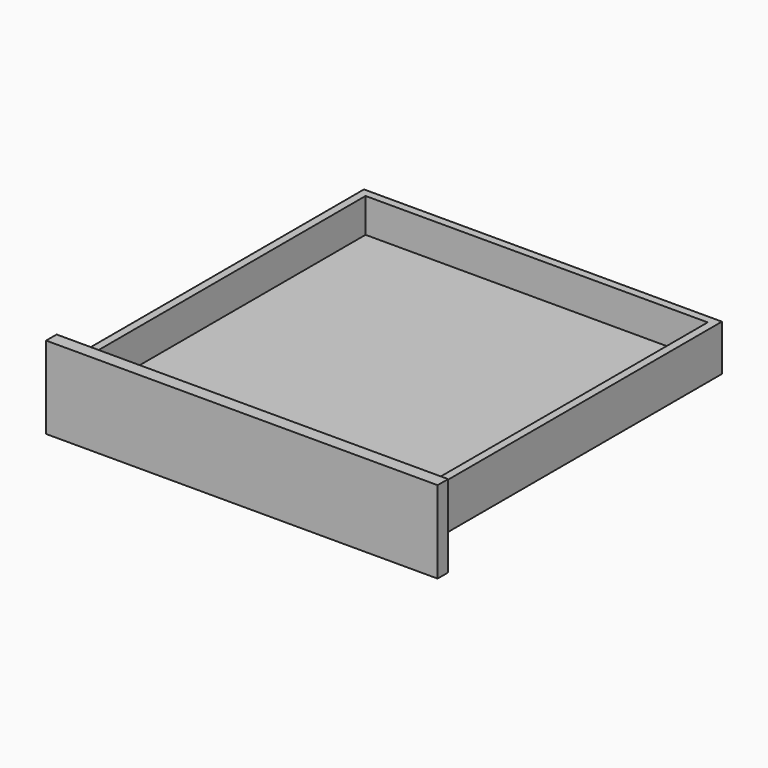
from build123d import *

# Parameters (mm, degrees)
F1_DEPTH = 552
F2_W     = 12
F2_H     = 70
F3_DEPTH = 520
F4_W     = 595
F4_H     = 125
F5_DEPTH = 20


with BuildPart() as f1:
    # F0 (on Front) → F1 (new body)
    with BuildSketch(Plane.XZ):
        Polygon((260, 55), (260, 3), (-260, 3), (-260, 55), (-272, 55), (-272, -15), (-260, -15), (-260, -3), (260, -3), (260, -15), (272, -15), (272, 55), align=None)
    extrude(amount=F1_DEPTH)

    # F2 (on face) → F3 (join)
    with BuildSketch(Plane(origin=(260, 0, 0), x_dir=(0, -1, 0), z_dir=(-1, 0, 0))):
        with Locations((6, 20)):
            Rectangle(F2_W, F2_H)
        with Locations((546, 20)):
            Rectangle(F2_W, F2_H)
    extrude(amount=F3_DEPTH)

    # F4 (on face) → F5 (join)
    with BuildSketch(Plane.XZ.offset(552)):
        with Locations((0, 14.5)):
            Rectangle(F4_W, F4_H)
    extrude(amount=F5_DEPTH)


solid = f1.part
